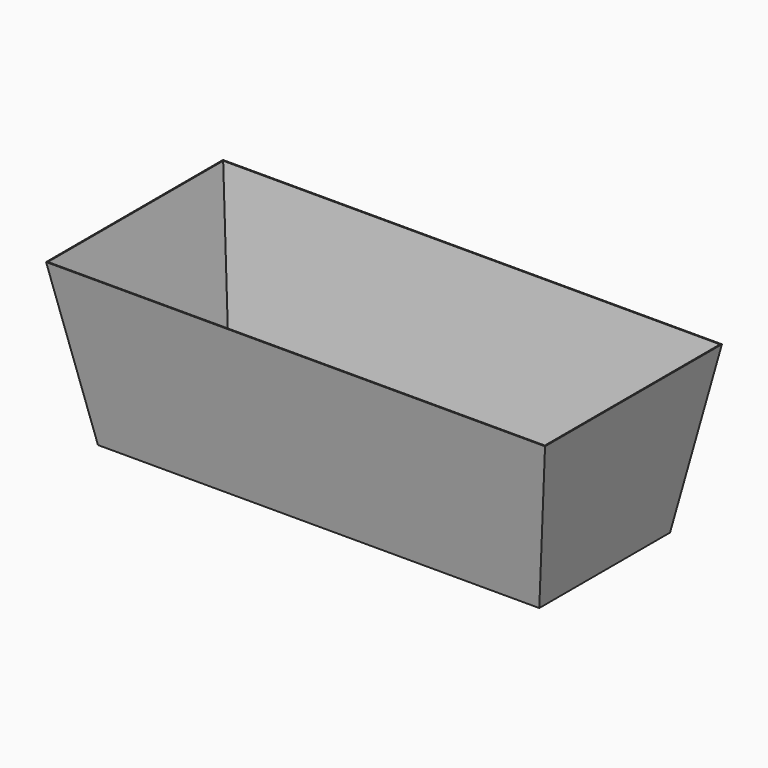
from build123d import *

# Parameters (mm, degrees)
F0_W     = 685.8
F0_H     = 254
F1_DEPTH = 254
F1_TAPER = -10
F2_W     = 772.1991061999
F2_H     = 340.3991061999
F3_DEPTH = 252.4125
F3_TAPER = 10


with BuildPart() as f1:
    # F0 (on Top) → F1 (new body)
    with BuildSketch(Plane.XY):
        with Locations((5.8371908963, -50.6961728707)):
            Rectangle(F0_W, F0_H)
    extrude(amount=F1_DEPTH, taper=F1_TAPER)

    # F2 (on face) → F3 (cut)
    with BuildSketch(Plane.XY.offset(254)):
        with Locations((5.8371908963, -50.6961728707)):
            Rectangle(F2_W, F2_H)
    extrude(amount=-F3_DEPTH, taper=F3_TAPER, mode=Mode.SUBTRACT)


solid = f1.part
